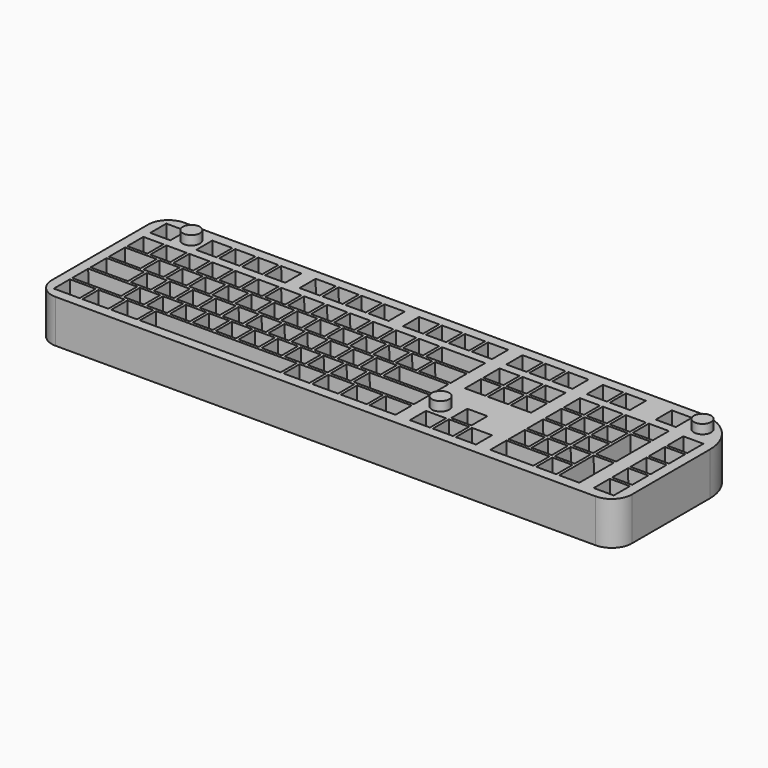
from build123d import *

# Parameters (mm, degrees)
PAD008_DEPTH    = 7.5
SKETCH019_W     = 3.5
SKETCH019_H     = 3.5
SKETCH019_W_2   = 7.5
SKETCH019_W_3   = 5.5
SKETCH019_W_4   = 6.5
SKETCH019_W_5   = 8.5
SKETCH019_W_6   = 4.5
SKETCH019_W_7   = 24.5
SKETCH019_W_8   = 10.5
SKETCH019_H_2   = 7.5
POCKET011_DEPTH = 10
POCKET011_TAPER = 3
SKETCH020_R     = 1.5
PAD009_DEPTH    = 1.6


with BuildPart() as part:
    # Sketch018 (on Face56 of Binder002) → Pad008 (new body)
    with BuildSketch(Plane.XY.offset(8.8)):
        with BuildLine():
            Line((36.499665, -43.251338), (36.499665, -64.244911))
            ThreePointArc((36.499665, -64.244911), (37.5244, -66.718841), (39.99833, -67.743576))
            Line((39.99833, -67.743576), (134.001, -67.743576))
            ThreePointArc((134.001, -67.743576), (136.47493, -66.718841), (137.499665, -64.244911))
            Line((137.499665, -64.244911), (137.499665, -47.251338))
            ThreePointArc((137.499665, -47.251338), (135.303357, -41.948981), (130.001, -39.752673))
            Line((130.001, -39.752673), (39.99833, -39.752673))
            ThreePointArc((39.99833, -39.752673), (37.5244, -40.777408), (36.499665, -43.251338))
        make_face()
    extrude(amount=-PAD008_DEPTH)

    # Sketch019 (on Face9 of Pad008) → Pocket011 (cut)
    with BuildSketch(Plane.XY.offset(8.8)):
        with Locations((40.00618, -43.239735)):
            Rectangle(SKETCH019_W, SKETCH019_H)
        with Locations((48.00618, -43.239735)):
            Rectangle(SKETCH019_W, SKETCH019_H)
        with Locations((52.00618, -43.239735)):
            Rectangle(SKETCH019_W, SKETCH019_H)
        with Locations((56.00618, -43.239735)):
            Rectangle(SKETCH019_W, SKETCH019_H)
        with Locations((60.00618, -43.239735)):
            Rectangle(SKETCH019_W, SKETCH019_H)
        with Locations((66.00618, -43.239735)):
            Rectangle(SKETCH019_W, SKETCH019_H)
        with Locations((70.00618, -43.239735)):
            Rectangle(SKETCH019_W, SKETCH019_H)
        with Locations((74.00618, -43.239735)):
            Rectangle(SKETCH019_W, SKETCH019_H)
        with Locations((78.00618, -43.239735)):
            Rectangle(SKETCH019_W, SKETCH019_H)
        with Locations((84.00618, -43.239735)):
            Rectangle(SKETCH019_W, SKETCH019_H)
        with Locations((88.00618, -43.239735)):
            Rectangle(SKETCH019_W, SKETCH019_H)
        with Locations((92.00618, -43.239735)):
            Rectangle(SKETCH019_W, SKETCH019_H)
        with Locations((96.00618, -43.239735)):
            Rectangle(SKETCH019_W, SKETCH019_H)
        with Locations((102.00618, -43.239735)):
            Rectangle(SKETCH019_W, SKETCH019_H)
        with Locations((106.00618, -43.239735)):
            Rectangle(SKETCH019_W, SKETCH019_H)
        with Locations((110.00618, -43.239735)):
            Rectangle(SKETCH019_W, SKETCH019_H)
        with Locations((116.00618, -43.239735)):
            Rectangle(SKETCH019_W, SKETCH019_H)
        with Locations((120.00618, -43.239735)):
            Rectangle(SKETCH019_W, SKETCH019_H)
        with Locations((128.00618, -43.239735)):
            Rectangle(SKETCH019_W, SKETCH019_H)
        with Locations((40.00618, -48.239735)):
            Rectangle(SKETCH019_W, SKETCH019_H)
        with Locations((44.00618, -48.239735)):
            Rectangle(SKETCH019_W, SKETCH019_H)
        with Locations((48.00618, -48.239735)):
            Rectangle(SKETCH019_W, SKETCH019_H)
        with Locations((52.00618, -48.239735)):
            Rectangle(SKETCH019_W, SKETCH019_H)
        with Locations((56.00618, -48.239735)):
            Rectangle(SKETCH019_W, SKETCH019_H)
        with Locations((60.00618, -48.239735)):
            Rectangle(SKETCH019_W, SKETCH019_H)
        with Locations((64.00618, -48.239735)):
            Rectangle(SKETCH019_W, SKETCH019_H)
        with Locations((68.00618, -48.239735)):
            Rectangle(SKETCH019_W, SKETCH019_H)
        with Locations((72.00618, -48.239735)):
            Rectangle(SKETCH019_W, SKETCH019_H)
        with Locations((76.00618, -48.239735)):
            Rectangle(SKETCH019_W, SKETCH019_H)
        with Locations((80.00618, -48.239735)):
            Rectangle(SKETCH019_W, SKETCH019_H)
        with Locations((84.00618, -48.239735)):
            Rectangle(SKETCH019_W, SKETCH019_H)
        with Locations((88.00618, -48.239735)):
            Rectangle(SKETCH019_W, SKETCH019_H)
        with Locations((94.00618, -48.239735)):
            Rectangle(SKETCH019_W_2, SKETCH019_H)
        with Locations((41.00618, -52.239735)):
            Rectangle(SKETCH019_W_3, SKETCH019_H)
        with Locations((41.50618, -56.239735)):
            Rectangle(SKETCH019_W_4, SKETCH019_H)
        with Locations((42.50618, -60.239735)):
            Rectangle(SKETCH019_W_5, SKETCH019_H)
        with Locations((40.50618, -64.239735)):
            Rectangle(SKETCH019_W_6, SKETCH019_H)
        with Locations((45.50618, -64.239735)):
            Rectangle(SKETCH019_W_6, SKETCH019_H)
        with Locations((50.50618, -64.239735)):
            Rectangle(SKETCH019_W_6, SKETCH019_H)
        with Locations((65.50618, -64.239735)):
            Rectangle(SKETCH019_W_7, SKETCH019_H)
        with Locations((80.50618, -64.239735)):
            Rectangle(SKETCH019_W_6, SKETCH019_H)
        with Locations((85.50618, -64.239735)):
            Rectangle(SKETCH019_W_6, SKETCH019_H)
        with Locations((90.50618, -64.239735)):
            Rectangle(SKETCH019_W_6, SKETCH019_H)
        with Locations((95.50618, -64.239735)):
            Rectangle(SKETCH019_W_6, SKETCH019_H)
        with Locations((92.50618, -60.239735)):
            Rectangle(SKETCH019_W_8, SKETCH019_H)
        with Locations((93.50618, -56.239735)):
            Rectangle(SKETCH019_W_5, SKETCH019_H)
        with Locations((95.00618, -52.239735)):
            Rectangle(SKETCH019_W_3, SKETCH019_H)
        with Locations((46.00618, -52.239735)):
            Rectangle(SKETCH019_W, SKETCH019_H)
        with Locations((50.00618, -52.239735)):
            Rectangle(SKETCH019_W, SKETCH019_H)
        with Locations((54.00618, -52.239735)):
            Rectangle(SKETCH019_W, SKETCH019_H)
        with Locations((58.00618, -52.239735)):
            Rectangle(SKETCH019_W, SKETCH019_H)
        with Locations((62.00618, -52.239735)):
            Rectangle(SKETCH019_W, SKETCH019_H)
        with Locations((66.00618, -52.239735)):
            Rectangle(SKETCH019_W, SKETCH019_H)
        with Locations((70.00618, -52.239735)):
            Rectangle(SKETCH019_W, SKETCH019_H)
        with Locations((74.00618, -52.239735)):
            Rectangle(SKETCH019_W, SKETCH019_H)
        with Locations((78.00618, -52.239735)):
            Rectangle(SKETCH019_W, SKETCH019_H)
        with Locations((82.00618, -52.239735)):
            Rectangle(SKETCH019_W, SKETCH019_H)
        with Locations((86.00618, -52.239735)):
            Rectangle(SKETCH019_W, SKETCH019_H)
        with Locations((90.00618, -52.239735)):
            Rectangle(SKETCH019_W, SKETCH019_H)
        with Locations((47.00618, -56.239735)):
            Rectangle(SKETCH019_W, SKETCH019_H)
        with Locations((51.00618, -56.239735)):
            Rectangle(SKETCH019_W, SKETCH019_H)
        with Locations((55.00618, -56.239735)):
            Rectangle(SKETCH019_W, SKETCH019_H)
        with Locations((59.00618, -56.239735)):
            Rectangle(SKETCH019_W, SKETCH019_H)
        with Locations((63.00618, -56.239735)):
            Rectangle(SKETCH019_W, SKETCH019_H)
        with Locations((67.00618, -56.239735)):
            Rectangle(SKETCH019_W, SKETCH019_H)
        with Locations((71.00618, -56.239735)):
            Rectangle(SKETCH019_W, SKETCH019_H)
        with Locations((75.00618, -56.239735)):
            Rectangle(SKETCH019_W, SKETCH019_H)
        with Locations((79.00618, -56.239735)):
            Rectangle(SKETCH019_W, SKETCH019_H)
        with Locations((83.00618, -56.239735)):
            Rectangle(SKETCH019_W, SKETCH019_H)
        with Locations((87.00618, -56.239735)):
            Rectangle(SKETCH019_W, SKETCH019_H)
        with Locations((49.00618, -60.239735)):
            Rectangle(SKETCH019_W, SKETCH019_H)
        with Locations((53.00618, -60.239735)):
            Rectangle(SKETCH019_W, SKETCH019_H)
        with Locations((57.00618, -60.239735)):
            Rectangle(SKETCH019_W, SKETCH019_H)
        with Locations((61.00618, -60.239735)):
            Rectangle(SKETCH019_W, SKETCH019_H)
        with Locations((65.00618, -60.239735)):
            Rectangle(SKETCH019_W, SKETCH019_H)
        with Locations((69.00618, -60.239735)):
            Rectangle(SKETCH019_W, SKETCH019_H)
        with Locations((73.00618, -60.239735)):
            Rectangle(SKETCH019_W, SKETCH019_H)
        with Locations((77.00618, -60.239735)):
            Rectangle(SKETCH019_W, SKETCH019_H)
        with Locations((81.00618, -60.239735)):
            Rectangle(SKETCH019_W, SKETCH019_H)
        with Locations((85.00618, -60.239735)):
            Rectangle(SKETCH019_W, SKETCH019_H)
        with Locations((102.00618, -48.239735)):
            Rectangle(SKETCH019_W, SKETCH019_H)
        with Locations((106.00618, -48.239735)):
            Rectangle(SKETCH019_W, SKETCH019_H)
        with Locations((110.00618, -48.239735)):
            Rectangle(SKETCH019_W, SKETCH019_H)
        with Locations((102.00618, -52.239735)):
            Rectangle(SKETCH019_W, SKETCH019_H)
        with Locations((106.00618, -52.239735)):
            Rectangle(SKETCH019_W, SKETCH019_H)
        with Locations((110.00618, -52.239735)):
            Rectangle(SKETCH019_W, SKETCH019_H)
        with Locations((106.00618, -60.239735)):
            Rectangle(SKETCH019_W, SKETCH019_H)
        with Locations((102.00618, -64.239735)):
            Rectangle(SKETCH019_W, SKETCH019_H)
        with Locations((106.00618, -64.239735)):
            Rectangle(SKETCH019_W, SKETCH019_H)
        with Locations((110.00618, -64.239735)):
            Rectangle(SKETCH019_W, SKETCH019_H)
        with Locations((116.00618, -48.239735)):
            Rectangle(SKETCH019_W, SKETCH019_H)
        with Locations((120.00618, -48.239735)):
            Rectangle(SKETCH019_W, SKETCH019_H)
        with Locations((124.00618, -48.239735)):
            Rectangle(SKETCH019_W, SKETCH019_H)
        with Locations((128.00618, -48.239735)):
            Rectangle(SKETCH019_W, SKETCH019_H)
        with Locations((116.00618, -52.239735)):
            Rectangle(SKETCH019_W, SKETCH019_H)
        with Locations((116.00618, -56.239735)):
            Rectangle(SKETCH019_W, SKETCH019_H)
        with Locations((120.00618, -56.239735)):
            Rectangle(SKETCH019_W, SKETCH019_H)
        with Locations((120.00618, -52.239735)):
            Rectangle(SKETCH019_W, SKETCH019_H)
        with Locations((124.00618, -52.239735)):
            Rectangle(SKETCH019_W, SKETCH019_H)
        with Locations((128.00618, -54.239735)):
            Rectangle(SKETCH019_W, SKETCH019_H_2)
        with Locations((128.00618, -62.239735)):
            Rectangle(SKETCH019_W, SKETCH019_H_2)
        with Locations((116.00618, -60.239735)):
            Rectangle(SKETCH019_W, SKETCH019_H)
        with Locations((124.00618, -56.239735)):
            Rectangle(SKETCH019_W, SKETCH019_H)
        with Locations((120.00618, -60.239735)):
            Rectangle(SKETCH019_W, SKETCH019_H)
        with Locations((124.00618, -60.239735)):
            Rectangle(SKETCH019_W, SKETCH019_H)
        with Locations((118.00618, -64.239735)):
            Rectangle(SKETCH019_W_2, SKETCH019_H)
        with Locations((124.00618, -64.239735)):
            Rectangle(SKETCH019_W, SKETCH019_H)
        with Locations((134.00618, -48.239735)):
            Rectangle(SKETCH019_W, SKETCH019_H)
        with Locations((134.00618, -52.239735)):
            Rectangle(SKETCH019_W, SKETCH019_H)
        with Locations((134.00618, -56.239735)):
            Rectangle(SKETCH019_W, SKETCH019_H)
        with Locations((134.00618, -60.239735)):
            Rectangle(SKETCH019_W, SKETCH019_H)
        with Locations((134.00618, -64.239735)):
            Rectangle(SKETCH019_W, SKETCH019_H)
    extrude(amount=-POCKET011_DEPTH, taper=POCKET011_TAPER, mode=Mode.SUBTRACT)

    # Sketch020 (on Face4 of Pocket011) → Pad009 (join)
    with BuildSketch(Plane.XY.offset(8.8)):
        with Locations((44.00618, -43.239735)):
            Circle(SKETCH020_R)
        with Locations((133.00618, -43.239735)):
            Circle(SKETCH020_R)
        with Locations((101.00618, -60.239735)):
            Circle(SKETCH020_R)
    extrude(amount=PAD009_DEPTH)


solid = part.part
